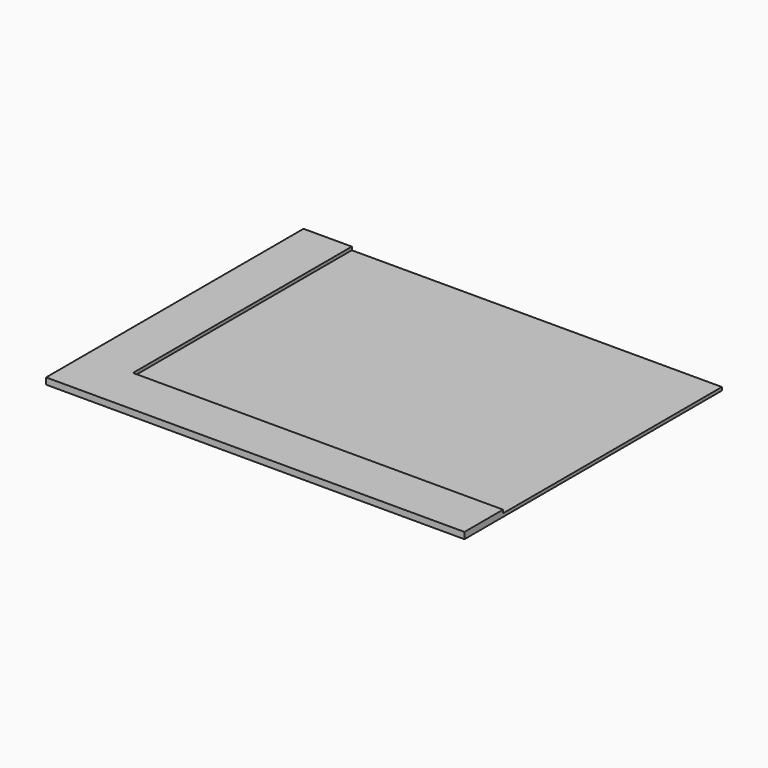
from build123d import *

# Parameters (mm, degrees)
F0_W     = 292.1
F0_H     = 215.9
F0_W_2   = 38.1
F1_DEPTH = 2.54
F2_W     = 292.1
F2_H     = 38.1
F3_DEPTH = 2.54


with BuildPart() as f1:
    # F0 (on Top) → F1 (new body)
    with BuildSketch(Plane.XY):
        with Locations((20.573033, 78.840188)):
            Rectangle(F0_W, F0_H)
        with Locations((-144.526967, 78.840188)):
            Rectangle(F0_W_2, F0_H)
        Polygon((-125.476967, -29.109812), (-163.576967, -29.109812), (-163.576967, -67.209812), (166.623033, -67.209812), (166.623033, -29.109812), align=None)
    extrude(amount=F1_DEPTH)

    # F2 (on face) → F3 (join)
    with BuildSketch(Plane.XY.offset(2.54)):
        with Locations((20.573033, -48.159812)):
            Rectangle(F2_W, F2_H)
        Polygon((-125.476967, 186.790188), (-163.576967, 186.790188), (-163.576967, -67.209812), (-125.476967, -67.209812), (-125.476967, -29.109812), align=None)
    extrude(amount=F3_DEPTH)


solid = f1.part
